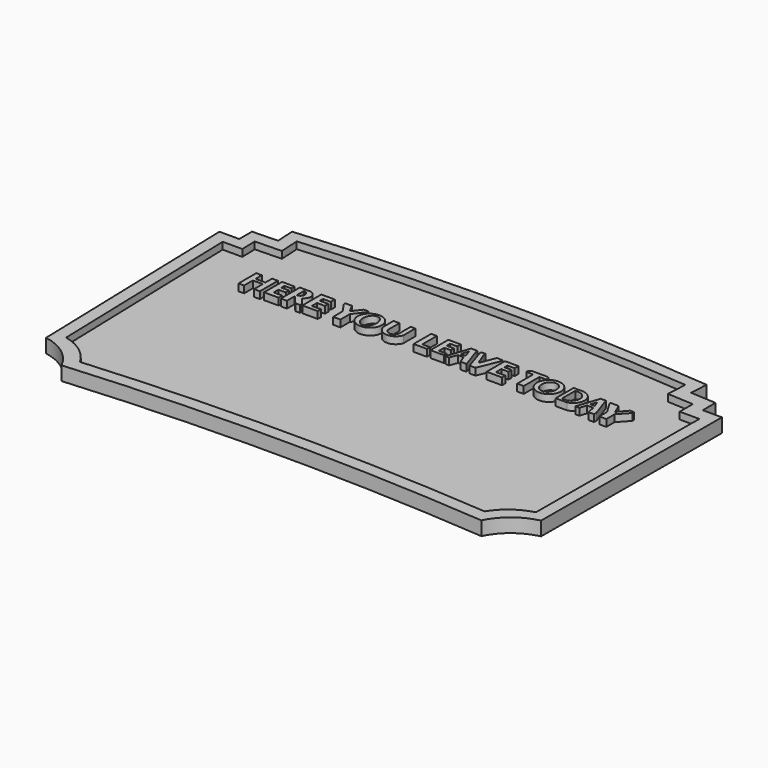
from build123d import *

# Parameters (mm, degrees)
F1_DEPTH = 2
F2_DEPTH = 1
F5_DEPTH = 1


with BuildPart() as f1:
    # F0 (on Top) → F1 (new body)
    with BuildSketch(Plane.XY):
        with BuildLine():
            Line((-34.295458, 44.110694), (-33.37862, 11.7969))
            ThreePointArc((-33.37862, 11.7969), (-30.115426, 10.383562), (-27.839661, 7.651008))
            ThreePointArc((-27.839661, 7.651008), (2.352765, 8.847378), (32.545191, 7.651008))
            ThreePointArc((32.545191, 7.651008), (34.70576, 10.331001), (37.820494, 11.7969))
            Line((37.820494, 11.7969), (37.989591, 44.110694))
            Line((37.989591, 44.110694), (35.22717, 44.12515))
            Line((35.22717, 44.12515), (35.22717, 46.403211))
            Line((35.22717, 46.403211), (31.552606, 46.609648))
            Line((31.552606, 46.609648), (31.699147, 49.218074))
            ThreePointArc((31.699147, 49.218074), (1.884959, 50.544576), (-27.929229, 49.218074))
            Line((-27.929229, 49.218074), (-27.777733, 46.51383))
            Line((-27.777733, 46.51383), (-31.451173, 46.409603))
            Line((-31.451173, 46.409603), (-31.451173, 44.110694))
            Line((-31.451173, 44.110694), (-34.295458, 44.110694))
        make_face()
        with BuildLine():
            ThreePointArc((-26.73091, 9.587434), (-28.809293, 11.929178), (-31.650014, 13.245893))
            Line((-31.650014, 13.245893), (-32.477943, 42.426074))
            Line((-32.477943, 42.426074), (-29.649366, 42.426074))
            Line((-29.649366, 42.426074), (-29.714817, 44.7329))
            Line((-29.714817, 44.7329), (-25.883198, 44.841615))
            Line((-25.883198, 44.841615), (-26.043401, 47.701294))
            ThreePointArc((-26.043401, 47.701294), (1.90444, 48.866637), (29.852282, 47.701294))
            Line((29.852282, 47.701294), (29.688275, 44.781978))
            Line((29.688275, 44.781978), (33.428615, 44.571845))
            Line((33.428615, 44.571845), (33.428615, 42.228029))
            Line((33.428615, 42.228029), (36.253032, 42.213249))
            Line((36.253032, 42.213249), (36.100274, 13.021725))
            ThreePointArc((36.100274, 13.021725), (33.451326, 11.755602), (31.47167, 9.587434))
            ThreePointArc((31.47167, 9.587434), (2.37038, 10.698771), (-26.73091, 9.587434))
        make_face(mode=Mode.SUBTRACT)
    extrude(amount=F1_DEPTH)

    # F0 (on Top) → F2 (join)
    with BuildSketch(Plane.XY):
        with BuildLine():
            Line((-32.477943, 42.426074), (-31.650014, 13.245893))
            ThreePointArc((-31.650014, 13.245893), (-28.809293, 11.929178), (-26.73091, 9.587434))
            ThreePointArc((-26.73091, 9.587434), (2.37038, 10.698771), (31.47167, 9.587434))
            ThreePointArc((31.47167, 9.587434), (33.451326, 11.755602), (36.100274, 13.021725))
            Line((36.100274, 13.021725), (36.253032, 42.213249))
            Line((36.253032, 42.213249), (33.428615, 42.228029))
            Line((33.428615, 42.228029), (33.428615, 44.571845))
            Line((33.428615, 44.571845), (29.688275, 44.781978))
            Line((29.688275, 44.781978), (29.852282, 47.701294))
            ThreePointArc((29.852282, 47.701294), (1.90444, 48.866637), (-26.043401, 47.701294))
            Line((-26.043401, 47.701294), (-25.883198, 44.841615))
            Line((-25.883198, 44.841615), (-29.714817, 44.7329))
            Line((-29.714817, 44.7329), (-29.649366, 42.426074))
            Line((-29.649366, 42.426074), (-32.477943, 42.426074))
        make_face()
    extrude(amount=F2_DEPTH)

    # F3 (on face) + F4 (on face) → F5 (join)
    with BuildSketch(Plane.XY.offset(1)):
        Polygon((-24.759674, 38.810994), (-24.759674, 35.624415), (-23.954982, 35.624415), (-23.954982, 37.197668), (-22.5322, 37.197668), (-22.5322, 35.637848), (-21.69966, 35.637848), (-21.69966, 38.891461), (-22.538725, 38.891461), (-22.538725, 37.684426), (-23.954982, 37.684426), (-23.954982, 38.810994), align=None)
        Polygon((-21.16408, 38.97249), (-21.16408, 35.729174), (-19.074054, 35.729174), (-19.074054, 36.377836), (-20.310575, 36.377836), (-20.310575, 37.231341), (-19.22947, 37.231341), (-19.22947, 37.823103), (-20.367475, 37.823103), (-20.367475, 38.392104), (-19.354651, 38.392104), (-19.354651, 38.97249), align=None)
        with BuildLine():
            Line((-18.752178, 39.145976), (-18.752178, 35.729174))
            Line((-18.752178, 35.729174), (-17.878581, 35.729174))
            Line((-17.878581, 35.729174), (-17.878581, 37.094801))
            Line((-17.878581, 37.094801), (-17.790289, 37.094801))
            Line((-17.790289, 37.094801), (-16.772637, 35.84674))
            Line((-16.772637, 35.84674), (-16.096694, 35.84674))
            Line((-16.096694, 35.84674), (-16.096694, 36.200803))
            Line((-16.096694, 36.200803), (-16.949669, 37.246902))
            ThreePointArc((-16.949669, 37.246902), (-16.407527, 38.322995), (-17.287638, 39.145976))
            Line((-17.287638, 39.145976), (-18.752178, 39.145976))
        make_face()
        with BuildLine():
            ThreePointArc((-17.878581, 38.754016), (-17.194834, 38.122334), (-17.878581, 37.490651))
            Line((-17.878581, 37.490651), (-17.878581, 38.754016))
        make_face(mode=Mode.SUBTRACT)
        Polygon((-15.806066, 39.33084), (-15.806066, 35.92046), (-13.597892, 35.92046), (-13.597892, 36.489904), (-14.900937, 36.489904), (-14.900937, 37.418962), (-13.762546, 37.418962), (-13.762546, 38.031645), (-14.987305, 38.031645), (-14.987305, 38.600042), (-13.870812, 38.600042), (-13.870812, 39.33084), align=None)
        Polygon((-10.78711, 38.123794), (-11.387965, 39.333247), (-12.366853, 39.333247), (-12.366853, 39.075121), (-11.377286, 37.606598), (-11.377286, 35.910681), (-10.328186, 35.910681), (-10.328186, 37.606598), (-9.114241, 39.193001), (-9.114241, 39.4325), (-9.785664, 39.4325), align=None)
        with BuildLine():
            add(Edge.make_bspline(
                [(-7.583012, 39.469209), (-10.602473, 39.469209), (-9.092742, 36.914164), (-7.583012, 34.35912), (-6.073282, 36.914164), (-4.563551, 39.469209), (-7.583012, 39.469209)],
                knots=[4.712389, 4.712389, 4.712389, 6.806784, 6.806784, 8.901179, 8.901179, 10.995574, 10.995574, 10.995574], degree=2, weights=[1, 0.5, 1, 0.5, 1, 0.5, 1]))
        make_face()
        with BuildLine():
            add(Edge.make_bspline(
                [(-7.583012, 39.086431), (-9.287862, 39.086431), (-8.435437, 37.105553), (-7.583012, 35.124674), (-6.730587, 37.105553), (-5.878162, 39.086431), (-7.583012, 39.086431)],
                knots=[0, 0, 0, 2.094395, 2.094395, 4.18879, 4.18879, 6.283185, 6.283185, 6.283185], degree=2, weights=[1, 0.5, 1, 0.5, 1, 0.5, 1]))
        make_face(mode=Mode.SUBTRACT)
        with BuildLine():
            ThreePointArc((-3.061968, 37.39905), (-3.813611, 36.707387), (-4.606975, 37.350766))
            Line((-4.606975, 37.350766), (-4.606975, 39.367981))
            Line((-4.606975, 39.367981), (-5.460304, 39.367981))
            Line((-5.460304, 39.367981), (-5.460304, 37.637897))
            ThreePointArc((-5.460304, 37.637897), (-4.053898, 36.259921), (-2.402476, 37.332114))
            Line((-2.402476, 37.332114), (-2.402476, 39.464545))
            Line((-2.402476, 39.464545), (-3.061968, 39.464545))
            Line((-3.061968, 39.464545), (-3.061968, 37.39905))
        make_face()
        Polygon((0.621485, 39.562661), (-0.193859, 39.562661), (-0.193859, 36.406022), (1.709199, 36.406022), (1.709199, 36.937121), (0.621485, 36.937121), align=None)
        Polygon((2.96916, 39.009213), (4.017987, 39.009213), (4.017987, 39.640781), (2.214774, 39.640781), (2.214774, 36.406022), (4.200685, 36.406022), (4.200685, 36.87096), (3.063893, 36.87096), (3.063893, 37.845355), (4.017987, 37.845355), (4.017987, 38.400218), (2.96916, 38.400218), align=None)
        Polygon((4.462211, 36.327589), (4.580993, 36.327589), (4.967244, 36.327589), (5.385684, 37.405878), (6.174282, 37.405878), (6.625718, 36.327589), (7.494785, 36.327589), (6.448686, 39.337944), (6.448686, 39.579354), (5.531338, 39.579354), align=None)
        Polygon((6.174282, 37.794512), (5.531338, 37.794512), (5.444448, 37.794512), (5.809076, 38.903534), align=None, mode=Mode.SUBTRACT)
        Polygon((7.581461, 39.579354), (6.995011, 39.579354), (6.995011, 39.325159), (7.996457, 36.229782), (8.838581, 36.229782), (10.181428, 39.45034), (10.022107, 39.579354), (9.236883, 39.579354), (8.435136, 37.513309), (8.28003, 37.513309), (7.581461, 39.357089), align=None)
        Polygon((10.426262, 39.454639), (10.426262, 36.260013), (12.639164, 36.260013), (12.639164, 36.839392), (11.303376, 36.839392), (11.303376, 37.794512), (12.349475, 37.794512), (12.349475, 38.352214), (11.303376, 38.352214), (11.303376, 38.891356), (12.357523, 38.891356), (12.357523, 39.556116), (10.694098, 39.556116), align=None)
        Polygon((14.936656, 39.003834), (14.936656, 36.260013), (15.802784, 36.260013), (15.802784, 38.990304), (16.810807, 38.990304), (16.810807, 39.434556), (16.560646, 39.531633), (14.354726, 39.531633), (14.016395, 39.409831), (14.016395, 39.003834), align=None)
    with BuildSketch(Plane.XY.offset(1)):
        Polygon((14.918283, 39.043553), (14.918283, 36.146663), (15.851725, 36.146663), (15.851725, 38.963083), (16.80126, 38.963083), (16.80126, 39.333243), (16.559852, 39.574649), (14.19406, 39.574649), (13.936559, 39.349336), (13.936559, 39.043553), align=None)
        with BuildLine():
            add(Edge.make_bspline(
                [(18.217517, 39.445899), (15.222738, 39.445899), (16.720128, 36.862837), (18.217517, 34.279775), (19.714907, 36.862837), (21.212296, 39.445899), (18.217517, 39.445899)],
                knots=[4.712389, 4.712389, 4.712389, 6.806784, 6.806784, 8.901179, 8.901179, 10.995574, 10.995574, 10.995574], degree=2, weights=[1, 0.5, 1, 0.5, 1, 0.5, 1]))
        make_face()
        with BuildLine():
            add(Edge.make_bspline(
                [(18.217517, 38.94699), (16.392781, 38.94699), (17.305149, 37.112292), (18.217517, 35.277594), (19.129885, 37.112292), (20.042253, 38.94699), (18.217517, 38.94699)],
                knots=[0, 0, 0, 2.094395, 2.094395, 4.18879, 4.18879, 6.283185, 6.283185, 6.283185], degree=2, weights=[1, 0.5, 1, 0.5, 1, 0.5, 1]))
        make_face(mode=Mode.SUBTRACT)
        with BuildLine():
            Line((21.468472, 39.28504), (20.518936, 39.28504))
            Line((20.518936, 39.28504), (20.518936, 36.066113))
            Line((20.518936, 36.066113), (21.468472, 36.066113))
            Line((21.468472, 36.066113), (22.112226, 36.066113))
            ThreePointArc((22.112226, 36.066113), (23.392565, 37.827748), (21.774255, 39.28504))
            Line((21.774255, 39.28504), (21.468472, 39.28504))
        make_face()
        with BuildLine():
            Line((21.803113, 36.457583), (21.099385, 36.457583))
            Line((21.099385, 36.457583), (21.099385, 38.852967))
            Line((21.099385, 38.852967), (21.518916, 38.852967))
            ThreePointArc((21.518916, 38.852967), (22.725008, 37.781511), (21.803113, 36.457583))
        make_face(mode=Mode.SUBTRACT)
        Polygon((24.537791, 39.136793), (23.466012, 35.902321), (24.035762, 35.902321), (24.365541, 36.897544), (25.265068, 36.897544), (25.494736, 35.730071), (26.29857, 35.730071), (26.29857, 36.151126), (25.265068, 39.136793), align=None)
        Polygon((25.09282, 37.356876), (24.480373, 37.356876), (24.779282, 38.258941), align=None, mode=Mode.SUBTRACT)
        Polygon((27.102403, 37.069794), (27.102403, 35.672653), (28.111158, 35.672653), (28.111158, 37.144538), (29.48916, 38.656514), (29.48916, 38.924456), (28.914994, 38.924456), (27.804935, 37.642151), (27.192492, 39.031532), (26.049763, 39.031532), (26.049763, 38.811434), align=None)
    extrude(amount=F5_DEPTH)


solid = f1.part
